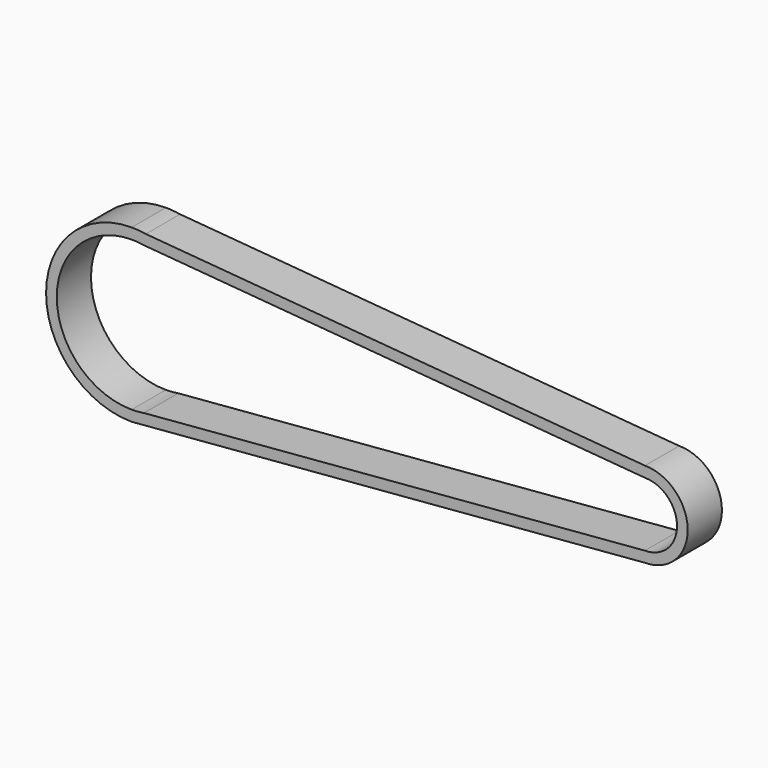
from build123d import *

# Parameters (mm, degrees)
F1_DEPTH = 12.7


with BuildPart() as f1:
    # F0 (on Front) → F1 (new body)
    with BuildSketch(Plane.XZ):
        with BuildLine():
            Line((0, 25.4), (4.204138, 25.049655))
            ThreePointArc((4.204138, 25.049655), (2.109355, 25.312262), (0, 25.4))
        make_face()
        with BuildLine():
            Line((152.4, 12.7), (4.204138, 25.049655))
            Line((4.204138, 25.049655), (0, 25.4))
            ThreePointArc((0, 25.4), (-25.4, 0), (0, -25.4))
            Line((0, -25.4), (152.4, -12.7))
            ThreePointArc((152.4, -12.7), (165.1, 0), (152.4, 12.7))
        make_face()
        with BuildLine():
            ThreePointArc((0, 22.225), (1.845686, 22.148229), (3.678621, 21.918448))
            Line((3.678621, 21.918448), (152.4, 9.525))
            ThreePointArc((152.4, 9.525), (161.925, 0), (152.4, -9.525))
            Line((152.4, -9.525), (3.678621, -21.918448))
            ThreePointArc((3.678621, -21.918448), (1.845686, -22.148229), (0, -22.225))
            ThreePointArc((0, -22.225), (-22.225, 0), (0, 22.225))
        make_face(mode=Mode.SUBTRACT)
    extrude(amount=F1_DEPTH)


solid = f1.part
